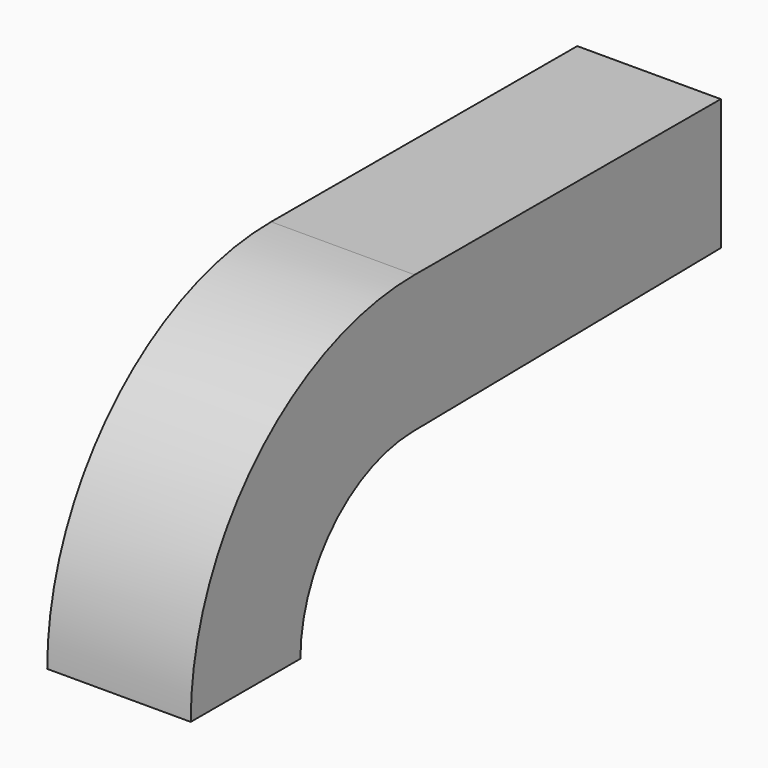
from build123d import *

# Parameters (mm, degrees)
F1_DEPTH = 12.954


with BuildPart() as f1:
    # F0 (on Right) → F1 (new body)
    with BuildSketch(Plane.YZ):
        with BuildLine():
            ThreePointArc((-12.717594, 0), (-9.006128, 9.05895), (0, 12.896817))
            Line((0, 12.896817), (34.716194, 13.357735))
            Line((34.716194, 13.357735), (34.716194, 25.19256))
            Line((34.716194, 25.19256), (0.171105, 25.270693))
            ThreePointArc((0.171105, 25.270693), (-17.708575, 17.888599), (-25.091471, 0.009251))
            Line((-25.091471, 0.009251), (-12.717594, 0))
        make_face()
    extrude(amount=F1_DEPTH)


solid = f1.part
